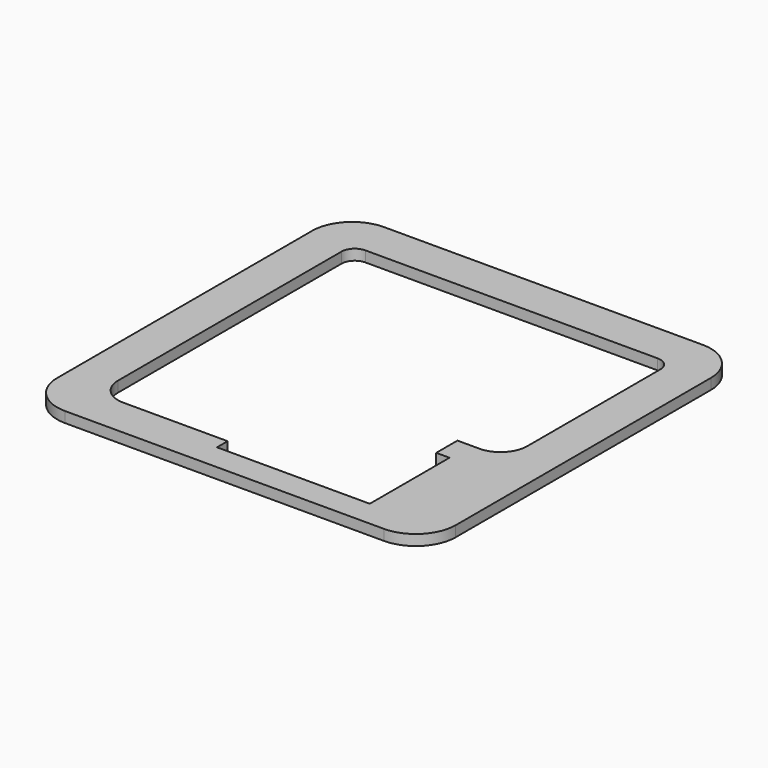
from build123d import *

# Parameters (mm, degrees)
F1_DEPTH = 0.8


with BuildPart() as f1:
    # F0 (on Top) → F1 (new body)
    with BuildSketch(Plane.XY):
        with BuildLine():
            ThreePointArc((15, 12), (14.12132, 14.12132), (12, 15))
            Line((12, 15), (-12, 15))
            ThreePointArc((-12, 15), (-14.12132, 14.12132), (-15, 12))
            Line((-15, 12), (-15, -12))
            ThreePointArc((-15, -12), (-14.12132, -14.12132), (-12, -15))
            Line((-12, -15), (12, -15))
            ThreePointArc((12, -15), (14.12132, -14.12132), (15, -12))
            Line((15, -12), (15, 12))
        make_face()
        with BuildLine():
            Line((9.35, -13.025), (-2.15, -13.025))
            Line((-2.15, -13.025), (-2.15, -12.025))
            Line((-2.15, -12.025), (-10, -12.025))
            ThreePointArc((-10, -12.025), (-11.414214, -11.439214), (-12, -10.025))
            Line((-12, -10.025), (-12, 11))
            ThreePointArc((-12, 11), (-11.707107, 11.707107), (-11, 12))
            Line((-11, 12), (11, 12))
            ThreePointArc((11, 12), (11.707107, 11.707107), (12, 11))
            Line((12, 11), (12, -1.525))
            ThreePointArc((12, -1.525), (11.414214, -2.939214), (10, -3.525))
            Line((10, -3.525), (8.35, -3.525))
            Line((8.35, -3.525), (8.35, -5.525))
            Line((8.35, -5.525), (9.35, -5.525))
            Line((9.35, -5.525), (9.35, -13.025))
        make_face(mode=Mode.SUBTRACT)
    extrude(amount=F1_DEPTH)


solid = f1.part
